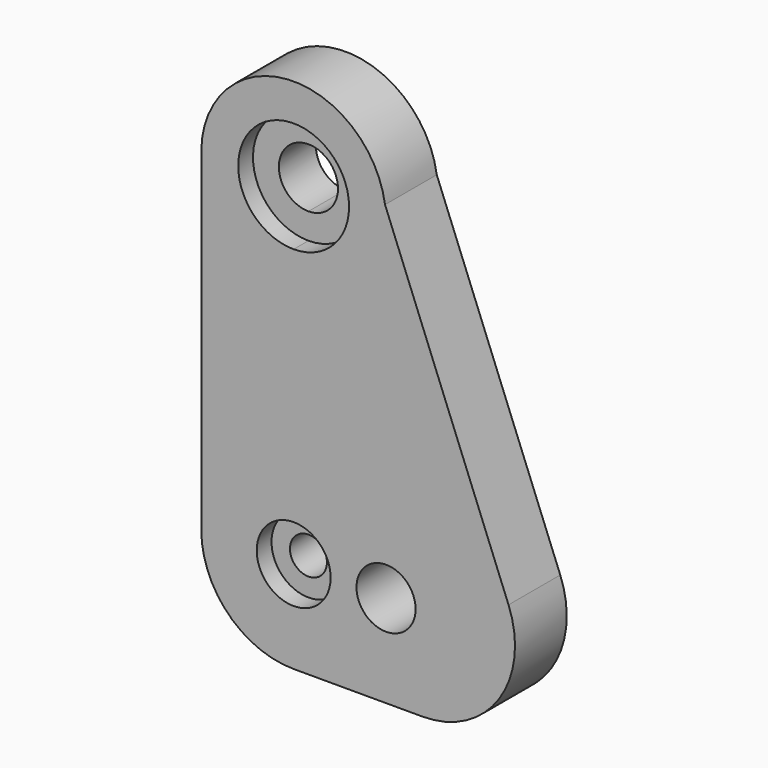
from build123d import *

# Parameters (mm, degrees)
F1_DEPTH = 25
F0_R     = 16
F2_DEPTH = 35


with BuildPart() as f1:
    # F0 (on Front) → F1 (new body)
    with BuildSketch(Plane.XZ):
        with BuildLine():
            ThreePointArc((-6.260685, 97.864598), (-57.477963, 119.073727), (-36.249162, 67.864601))
            ThreePointArc((-36.249162, 67.864601), (-15.043408, 76.65547), (-6.260685, 97.864598))
        make_face()
        with BuildLine():
            ThreePointArc((-20.260685, 97.864598), (-24.942904, 86.554965), (-36.249162, 81.864603))
            ThreePointArc((-36.249162, 81.864603), (-47.578467, 109.174232), (-20.260685, 97.864598))
        make_face(mode=Mode.SUBTRACT)
        with BuildLine():
            ThreePointArc((-36.249162, -62.135402), (-50.391298, -96.277537), (-16.249162, -82.135402))
            ThreePointArc((-16.249162, -82.135402), (-22.107026, -67.993266), (-36.249162, -62.135402))
        make_face()
        with BuildLine():
            ThreePointArc((-26.249162, -82.135402), (-43.32023, -89.206469), (-36.249162, -72.135402))
            ThreePointArc((-36.249162, -72.135402), (-29.178094, -75.064334), (-26.249162, -82.135402))
        make_face(mode=Mode.SUBTRACT)
    extrude(amount=F1_DEPTH)

    # F0 (on Front) → F2 (join)
    with BuildSketch(Plane.XZ):
        with BuildLine():
            ThreePointArc((-26.249162, -82.135402), (-29.178094, -75.064334), (-36.249162, -72.135402))
            ThreePointArc((-36.249162, -72.135402), (-43.32023, -89.206469), (-26.249162, -82.135402))
        make_face()
        with BuildLine():
            ThreePointArc((-36.249162, -62.135402), (-50.391298, -96.277537), (-16.249162, -82.135402))
            ThreePointArc((-16.249162, -82.135402), (-22.107026, -67.993266), (-36.249162, -62.135402))
        make_face()
        with BuildLine():
            ThreePointArc((-26.249162, -82.135402), (-43.32023, -89.206469), (-36.249162, -72.135402))
            ThreePointArc((-36.249162, -72.135402), (-29.178094, -75.064334), (-26.249162, -82.135402))
        make_face(mode=Mode.SUBTRACT)
        with BuildLine():
            ThreePointArc((-20.260685, 97.864598), (-47.578467, 109.174232), (-36.249162, 81.864603))
            ThreePointArc((-36.249162, 81.864603), (-24.942904, 86.554965), (-20.260685, 97.864598))
        make_face()
        with BuildLine():
            ThreePointArc((-6.260685, 97.864598), (-57.477963, 119.073727), (-36.249162, 67.864601))
            ThreePointArc((-36.249162, 67.864601), (-15.043408, 76.65547), (-6.260685, 97.864598))
        make_face()
        with BuildLine():
            ThreePointArc((-20.260685, 97.864598), (-24.942904, 86.554965), (-36.249162, 81.864603))
            ThreePointArc((-36.249162, 81.864603), (-47.578467, 109.174232), (-20.260685, 97.864598))
        make_face(mode=Mode.SUBTRACT)
        with BuildLine():
            Line((80.040823, -63.740012), (13.198313, 105.199956))
            ThreePointArc((13.198313, 105.199956), (-39.402834, 147.76577), (-86.249162, 98.938004))
            Line((-86.249162, 98.938004), (-86.249162, 96.791193))
            Line((-86.249162, 96.791193), (-86.249162, -82.135402))
            ThreePointArc((-86.249162, -82.135402), (-71.604501, -117.490741), (-36.249162, -132.135402))
            Line((-36.249162, -132.135402), (33.547709, -132.135402))
            ThreePointArc((33.547709, -132.135402), (74.898462, -110.244391), (80.040823, -63.740012))
        make_face()
        with BuildLine():
            ThreePointArc((-36.249162, -62.135402), (-22.107026, -67.993266), (-16.249162, -82.135402))
            ThreePointArc((-16.249162, -82.135402), (-50.391298, -96.277537), (-36.249162, -62.135402))
        make_face(mode=Mode.SUBTRACT)
        with Locations((13.750838, -82.135402)):
            Circle(F0_R, mode=Mode.SUBTRACT)
        with BuildLine():
            ThreePointArc((-6.260685, 97.864598), (-15.043408, 76.65547), (-36.249162, 67.864601))
            ThreePointArc((-36.249162, 67.864601), (-57.477963, 119.073727), (-6.260685, 97.864598))
        make_face(mode=Mode.SUBTRACT)
        with BuildLine():
            Line((-86.249162, 96.791193), (-86.249162, 98.938004))
            ThreePointArc((-86.249162, 98.938004), (-86.260685, 97.864598), (-86.249162, 96.791193))
        make_face()
    extrude(amount=F2_DEPTH)


solid = f1.part
